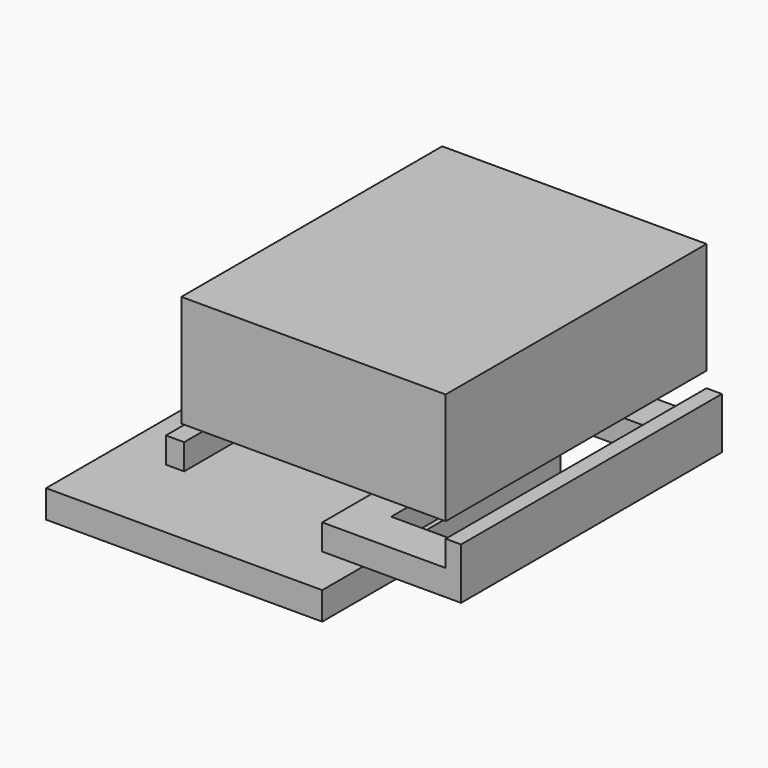
from build123d import *

# Parameters (mm, degrees)
F0_W      = 53.7
F0_H      = 57.9
F1_DEPTH  = 5.4
F3_W      = 51.4
F3_H      = 63.4
F4_DEPTH  = 21.7
F6_W      = 24
F6_H      = 4
F6_W_2    = 3
F6_H_2    = 53.9
F6_W_3    = 13
F6_H_3    = 47.4
F6_H_4    = 5.5
F7_DEPTH  = 5
F8_DEPTH  = 10
F10_W     = 3.55
F10_H     = 57.9
F10_H_2   = 5.5
F11_DEPTH = 5


with BuildPart() as f1:
    # F0 (on Top) → F1 (new body)
    with BuildSketch(Plane.XY):
        Rectangle(F0_W, F0_H)
    extrude(amount=F1_DEPTH)


with BuildPart() as f4:
    # F3 (on offset) → F4 (new body)
    with BuildSketch(Plane.XY.offset(25)):
        with Locations((25.15, 2.75)):
            Rectangle(F3_W, F3_H)
    extrude(amount=F4_DEPTH)


with BuildPart() as f7:
    # F6 (on offset) → F7 (new body)
    with BuildSketch(Plane.XY.offset(12)):
        Polygon((-0.55, 28.95), (26.85, 28.95), (50.85, 28.95), (50.85, 34.45), (-0.55, 34.45), align=None)
        with Locations((38.85, -26.95)):
            Rectangle(F6_W, F6_H)
        with Locations((52.35, -26.95)):
            Rectangle(F6_W_2, F6_H)
        with Locations((38.85, 2)):
            Rectangle(F6_W, F6_H_2)
        with Locations((40.35, 2.75)):
            Rectangle(F6_W_3, F6_H_3, mode=Mode.SUBTRACT)
        with Locations((-2.05, 31.7)):
            Rectangle(F6_W_2, F6_H_4)
        Polygon((50.85, 34.45), (50.85, 28.95), (50.85, -24.95), (53.85, -24.95), (53.85, 34.45), align=None)
    extrude(amount=F7_DEPTH)

    # F6 (on offset) → F8 (join)
    with BuildSketch(Plane.XY.offset(12)):
        Polygon((50.85, 34.45), (50.85, 28.95), (50.85, -24.95), (53.85, -24.95), (53.85, 34.45), align=None)
        with Locations((52.35, -26.95)):
            Rectangle(F6_W_2, F6_H)
        with Locations((-2.05, 31.7)):
            Rectangle(F6_W_2, F6_H_4)
    extrude(amount=F8_DEPTH)

    # F10 (on offset) → F11 (join)
    with BuildSketch(Plane.XY.offset(17)):
        with Locations((-1.775, 0)):
            Rectangle(F10_W, F10_H)
        with Locations((-1.775, 31.7)):
            Rectangle(F10_W, F10_H_2)
    extrude(amount=F11_DEPTH)


solid = Compound([f1.part, f4.part, f7.part])
